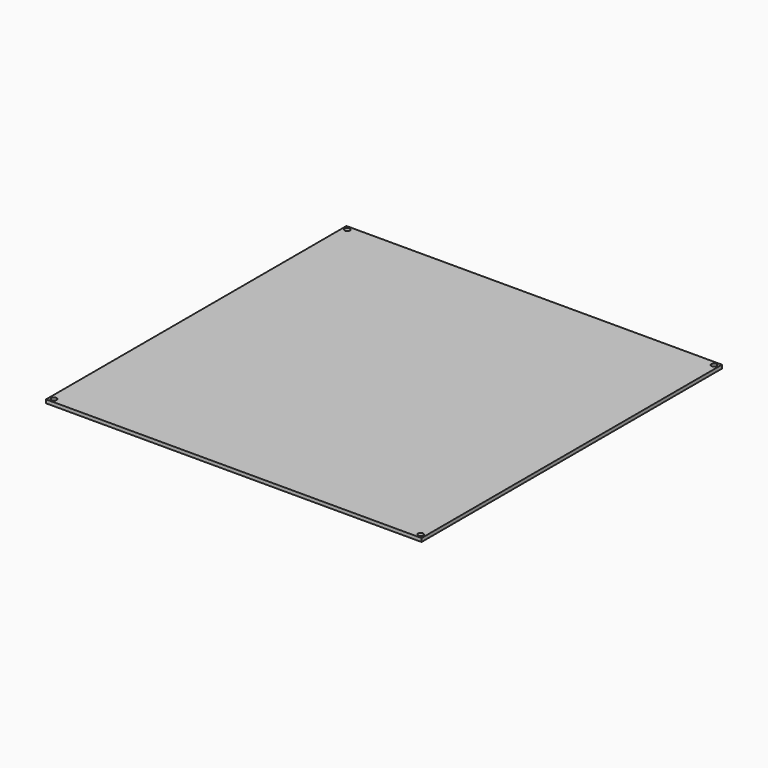
from build123d import *

# Parameters (mm, degrees)
F0_W     = 214
F0_H     = 214
F1_DEPTH = 2


with BuildPart() as f1:
    # F0 (on Top) → F1 (new body)
    with BuildSketch(Plane.XY):
        Rectangle(F0_W, F0_H)
        with BuildLine():
            ThreePointArc((-104.5, 103), (-105.5606601718, 105.5606601718), (-103, 104.5))
            Line((-103, 104.5), (103, 104.5))
            ThreePointArc((103, 104.5), (104.5, 106), (106, 104.5))
            ThreePointArc((106, 104.5), (105.5606601718, 103.4393398282), (104.5, 103))
            Line((104.5, 103), (104.5, -103))
            ThreePointArc((104.5, -103), (105.5606601718, -103.4393398282), (106, -104.5))
            ThreePointArc((106, -104.5), (104.5, -106), (103, -104.5))
            Line((103, -104.5), (-103, -104.5))
            ThreePointArc((-103, -104.5), (-105.5606601718, -105.5606601718), (-104.5, -103))
            Line((-104.5, -103), (-104.5, 103))
        make_face(mode=Mode.SUBTRACT)
        with BuildLine():
            Line((103, 104.5), (-103, 104.5))
            ThreePointArc((-103, 104.5), (-103.4393398282, 103.4393398282), (-104.5, 103))
            Line((-104.5, 103), (-104.5, -103))
            ThreePointArc((-104.5, -103), (-103.4393398282, -103.4393398282), (-103, -104.5))
            Line((-103, -104.5), (103, -104.5))
            ThreePointArc((103, -104.5), (103.4393398282, -103.4393398282), (104.5, -103))
            Line((104.5, -103), (104.5, 103))
            ThreePointArc((104.5, 103), (103.4393398282, 103.4393398282), (103, 104.5))
        make_face()
    extrude(amount=F1_DEPTH)


solid = f1.part
